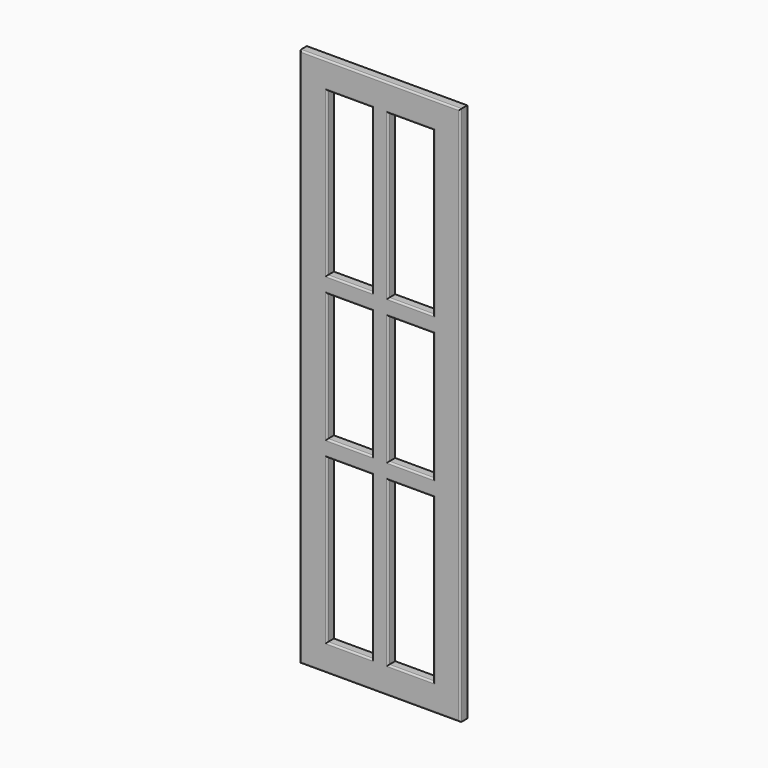
from build123d import *

# Parameters (mm, degrees)
F0_W      = 28.8499742746
F0_H      = 37.8827601671
F1_DEPTH  = 16
F2_DEPTH  = 296
F3_DEPTH  = 996
F4_W      = 199.8313069344
F4_H      = 801.1276721954
F5_DEPTH  = 5
F6_DEPTH  = 39.21
F7_DEPTH  = 2.24
F8_DEPTH  = 55.66
F9_DEPTH  = 1.59
F10_W     = 54.77245152
F10_H     = 895.9976721954
F11_DEPTH = 5
F12_DEPTH = 5.86
F13_DEPTH = 18.91
F14_W     = 83.0026693535
F14_H     = 34.9487662315
F14_H_2   = 55.274695158
F15_W     = 82.9961860609
F15_H     = 44.8832511902
F15_H_2   = 52.5203943253
F16_DEPTH = 5
F17_DEPTH = 300
F18_DEPTH = 300
F19_DEPTH = 324.79
F20_DEPTH = 324.79
F21_DEPTH = 250
F22_DEPTH = 250
F23_DEPTH = 100
F24_DEPTH = 100
F25_DEPTH = 50
F26_DEPTH = 50
F27_DEPTH = 134.02
F28_DEPTH = 100
F29_DEPTH = 100
F30_DEPTH = 100
F31_DEPTH = 50
F32_DEPTH = 54.95
F33_DEPTH = 50
F34_DEPTH = 109.29
F35_DEPTH = 14.88
F36_DEPTH = 230.15
F37_DEPTH = 230.15
F38_DEPTH = 22.52
F39_DEPTH = 77.2
F40_DEPTH = 77.2
F41_DEPTH = 11
F42_R     = 3


with BuildPart() as f1:
    # F0 (on Front) → F1 (new body)
    with BuildSketch(Plane.XZ):
        with Locations((14.4249871373, 18.9413800836)):
            Rectangle(F0_W, F0_H)
    extrude(amount=F1_DEPTH)

    # F2 (add): a face of the model
    f2_faces = [f1.faces().sort_by_distance(p)[0] for p in [
        (0, -8, 18.9413800836),
    ]]
    extrude(f2_faces, amount=-F2_DEPTH)

    # F3 (add): a face of the model
    f3_faces = [f1.faces().sort_by_distance(p)[0] for p in [
        (148, -8, 0),
    ]]
    extrude(f3_faces, amount=-F3_DEPTH)

    # F4 (on face) → F5 (cut)
    with BuildSketch(Plane.XZ.offset(16)):
        with Locations((148.3252942562, 506.2239170074)):
            Rectangle(F4_W, F4_H)
    extrude(amount=-F5_DEPTH, mode=Mode.SUBTRACT)

    # F6 (cut): a face of the model
    f6_faces = [f1.faces().sort_by_distance(p)[0] for p in [
        (148.3252942562, -13.5, 906.7877531052),
    ]]
    extrude(f6_faces, amount=-F6_DEPTH, mode=Mode.SUBTRACT)

    # F7 (add): a face of the model
    f7_faces = [f1.faces().sort_by_distance(p)[0] for p in [
        (248.2409477234, -13.5, 525.8289170074),
    ]]
    extrude(f7_faces, amount=F7_DEPTH)

    # F8 (cut): a face of the model
    f8_faces = [f1.faces().sort_by_distance(p)[0] for p in [
        (147.2052942562, -13.5, 105.6600809097),
    ]]
    extrude(f8_faces, amount=-F8_DEPTH, mode=Mode.SUBTRACT)

    # F9 (add): a face of the model
    f9_faces = [f1.faces().sort_by_distance(p)[0] for p in [
        (48.409640789, -13.5, 497.9989170074),
    ]]
    extrude(f9_faces, amount=F9_DEPTH)

    # F10 (on face) → F11 (join)
    with BuildSketch(Plane.XZ.offset(11)):
        with Locations((154.5285359025, 497.9989170074)):
            Rectangle(F10_W, F10_H)
    extrude(amount=F11_DEPTH)

    # F12 (cut): a face of the model
    f12_faces = [f1.faces().sort_by_distance(p)[0] for p in [
        (127.1423101425, -13.5, 497.9989170074),
    ]]
    extrude(f12_faces, amount=-F12_DEPTH, mode=Mode.SUBTRACT)

    # F13 (cut): a face of the model
    f13_faces = [f1.faces().sort_by_distance(p)[0] for p in [
        (181.9147616625, -13.5, 497.9989170074),
    ]]
    extrude(f13_faces, amount=-F13_DEPTH, mode=Mode.SUBTRACT)

    # F14 (on face) + F15 (on face) → F16 (join)
    with BuildSketch(Plane.XZ.offset(11)):
        with Locations((91.5009754658, 853.3093035221)):
            Rectangle(F14_W, F14_H)
        with Locations((91.5009754658, 511.6568356752)):
            Rectangle(F14_W, F14_H_2)
    with BuildSketch(Plane.XZ.offset(11)):
        with Locations((204.5028546929, 853.7013530731)):
            Rectangle(F15_W, F15_H)
        with Locations((204.5028546929, 576.5425562859)):
            Rectangle(F15_W, F15_H_2)
    extrude(amount=F16_DEPTH)

    # F17 (add): faces of the model
    f17_faces = [f1.faces().sort_by_distance(p)[0] for p in [
        (204.5028546929, -13.5, 550.2823591232),
        (91.5009754658, -13.5, 484.0194880962),
    ]]
    extrude(f17_faces, amount=F17_DEPTH)

    # F18 (cut): faces of the model
    f18_faces = [f1.faces().sort_by_distance(p)[0] for p in [
        (91.5009754658, -13.5, 539.2941832542),
        (204.5028546929, -13.5, 602.8027534485),
    ]]
    extrude(f18_faces, amount=-F18_DEPTH, mode=Mode.SUBTRACT)

    # F19 (add): a face of the model
    f19_faces = [f1.faces().sort_by_distance(p)[0] for p in [
        (91.5009754658, -13.5, 835.8349204063),
    ]]
    extrude(f19_faces, amount=F19_DEPTH)

    # F20 (cut): a face of the model
    f20_faces = [f1.faces().sort_by_distance(p)[0] for p in [
        (91.5009754658, -13.5, 870.7836866379),
    ]]
    extrude(f20_faces, amount=-F20_DEPTH, mode=Mode.SUBTRACT)

    # F21 (add): a face of the model
    f21_faces = [f1.faces().sort_by_distance(p)[0] for p in [
        (91.5009754658, -13.5, 239.2941832542),
    ]]
    extrude(f21_faces, amount=F21_DEPTH)

    # F22 (cut): a face of the model
    f22_faces = [f1.faces().sort_by_distance(p)[0] for p in [
        (91.5009754658, -13.5, 184.0194880962),
    ]]
    extrude(f22_faces, amount=-F22_DEPTH, mode=Mode.SUBTRACT)

    # F23 (add): a face of the model
    f23_faces = [f1.faces().sort_by_distance(p)[0] for p in [
        (91.5009754658, -13.5, 545.9936866379),
    ]]
    extrude(f23_faces, amount=F23_DEPTH)

    # F24 (cut): a face of the model
    f24_faces = [f1.faces().sort_by_distance(p)[0] for p in [
        (91.5009754658, -13.5, 511.0449204063),
    ]]
    extrude(f24_faces, amount=-F24_DEPTH, mode=Mode.SUBTRACT)

    # F25 (add): a face of the model
    f25_faces = [f1.faces().sort_by_distance(p)[0] for p in [
        (91.5009754658, -13.5, 645.9936866379),
    ]]
    extrude(f25_faces, amount=F25_DEPTH)

    # F26 (cut): a face of the model
    f26_faces = [f1.faces().sort_by_distance(p)[0] for p in [
        (91.5009754658, -13.5, 611.0449204063),
    ]]
    extrude(f26_faces, amount=-F26_DEPTH, mode=Mode.SUBTRACT)

    # F27 (add): a face of the model
    f27_faces = [f1.faces().sort_by_distance(p)[0] for p in [
        (91.5009754658, -13.5, 434.0194880962),
    ]]
    extrude(f27_faces, amount=F27_DEPTH)

    # F28 (cut): a face of the model
    f28_faces = [f1.faces().sort_by_distance(p)[0] for p in [
        (91.5009754658, -13.5, 299.9994880962),
    ]]
    extrude(f28_faces, amount=-F28_DEPTH, mode=Mode.SUBTRACT)

    # F29 (add): a face of the model
    f29_faces = [f1.faces().sort_by_distance(p)[0] for p in [
        (91.5009754658, -13.5, 661.0449204063),
    ]]
    extrude(f29_faces, amount=F29_DEPTH)

    # F30 (cut): a face of the model
    f30_faces = [f1.faces().sort_by_distance(p)[0] for p in [
        (91.5009754658, -13.5, 695.9936866379),
    ]]
    extrude(f30_faces, amount=-F30_DEPTH, mode=Mode.SUBTRACT)

    # F31 (add): a face of the model
    f31_faces = [f1.faces().sort_by_distance(p)[0] for p in [
        (91.5009754658, -13.5, 595.9936866379),
    ]]
    extrude(f31_faces, amount=F31_DEPTH)

    # F32 (cut): a face of the model
    f32_faces = [f1.faces().sort_by_distance(p)[0] for p in [
        (91.5009754658, -13.5, 561.0449204063),
    ]]
    extrude(f32_faces, amount=-F32_DEPTH, mode=Mode.SUBTRACT)

    # F33 (add): a face of the model
    f33_faces = [f1.faces().sort_by_distance(p)[0] for p in [
        (91.5009754658, -13.5, 399.9994880962),
    ]]
    extrude(f33_faces, amount=F33_DEPTH)

    # F34 (cut): a face of the model
    f34_faces = [f1.faces().sort_by_distance(p)[0] for p in [
        (91.5009754658, -13.5, 489.2941832542),
    ]]
    extrude(f34_faces, amount=-F34_DEPTH, mode=Mode.SUBTRACT)

    # F35 (cut): a face of the model
    f35_faces = [f1.faces().sort_by_distance(p)[0] for p in [
        (204.5028546929, -13.5, 831.259727478),
    ]]
    extrude(f35_faces, amount=-F35_DEPTH, mode=Mode.SUBTRACT)

    # F36 (add): a face of the model
    f36_faces = [f1.faces().sort_by_distance(p)[0] for p in [
        (204.5028546929, -13.5, 846.139727478),
    ]]
    extrude(f36_faces, amount=F36_DEPTH)

    # F37 (cut): a face of the model
    f37_faces = [f1.faces().sort_by_distance(p)[0] for p in [
        (204.5028546929, -13.5, 876.1429786682),
    ]]
    extrude(f37_faces, amount=-F37_DEPTH, mode=Mode.SUBTRACT)

    # F38 (cut): a face of the model
    f38_faces = [f1.faces().sort_by_distance(p)[0] for p in [
        (204.5028546929, -13.5, 250.2823591232),
    ]]
    extrude(f38_faces, amount=-F38_DEPTH, mode=Mode.SUBTRACT)

    # F39 (add): a face of the model
    f39_faces = [f1.faces().sort_by_distance(p)[0] for p in [
        (204.5028546929, -13.5, 302.8027534485),
    ]]
    extrude(f39_faces, amount=F39_DEPTH)

    # F40 (cut): a face of the model
    f40_faces = [f1.faces().sort_by_distance(p)[0] for p in [
        (204.5028546929, -13.5, 272.8023591232),
    ]]
    extrude(f40_faces, amount=-F40_DEPTH, mode=Mode.SUBTRACT)

    # F41 (cut): faces of the model
    f41_faces = [f1.faces().sort_by_distance(p)[0] for p in [
        (91.5009754658, -11, 795.9957198715),
        (204.5028546929, -11, 795.9953658867),
        (204.5028546929, -11, 497.9962404633),
        (91.5009754658, -11, 497.9995518303),
        (91.5009754658, -11, 199.999784503),
        (204.5028546929, -11, 200.0012200165),
    ]]
    extrude(f41_faces, amount=-F41_DEPTH, mode=Mode.SUBTRACT)

    # F42
    f42_edges = [f1.edges().sort_by_distance(p)[0] for p in [
        (0, -16, 498),
        (148, -16, 0),
        (296, -16, 498),
        (148, -16, 996),
        (133.00231, -16, 199.999785),
        (91.500975, -16, 50.000081),
        (49.999641, -16, 199.999785),
        (91.500975, -16, 349.999488),
        (246.000948, -16, 200.00122),
        (204.502855, -16, 50.000081),
        (163.004762, -16, 200.00122),
        (204.502855, -16, 350.002359),
        (163.004762, -16, 497.99624),
        (204.502855, -16, 615.989727),
        (246.000948, -16, 497.99624),
        (204.502855, -16, 380.002753),
        (91.500975, -16, 615.99492),
        (133.00231, -16, 497.999552),
        (91.500975, -16, 380.004183),
        (49.999641, -16, 497.999552),
        (49.999641, -16, 795.99572),
        (91.500975, -16, 945.997753),
        (133.00231, -16, 795.99572),
        (91.500975, -16, 645.993687),
        (163.004762, -16, 795.995366),
        (204.502855, -16, 945.997753),
        (246.000948, -16, 795.995366),
        (204.502855, -16, 645.992979),
    ]]
    fillet(f42_edges, radius=F42_R)


solid = f1.part
